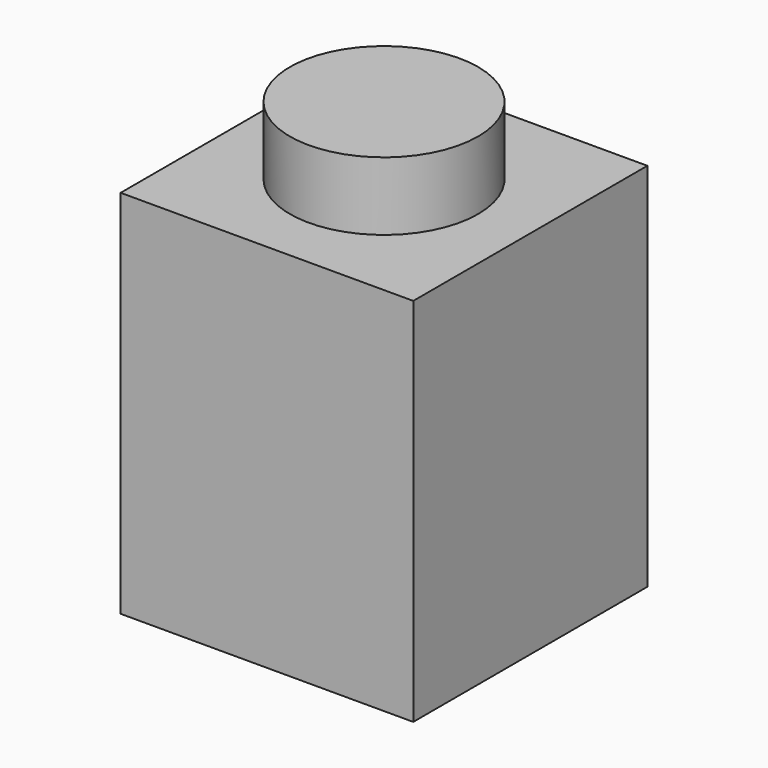
from build123d import *

# Parameters (mm, degrees)
F0_W     = 7.62
F0_H     = 7.62
F1_DEPTH = 9.652
F2_R     = 2.4511
F3_DEPTH = 1.778
F4_W     = 5.08
F4_H     = 5.08
F5_DEPTH = 8.382


with BuildPart() as f1:
    # F0 (on Top) → F1 (new body)
    with BuildSketch(Plane.XY):
        Rectangle(F0_W, F0_H)
    extrude(amount=F1_DEPTH)

    # F2 (on face) → F3 (join)
    with BuildSketch(Plane.XY.offset(9.652)):
        Circle(F2_R)
    extrude(amount=F3_DEPTH)

    # F4 (on face) → F5 (cut)
    with BuildSketch(Plane(origin=(0, 0, 0), x_dir=(1, 0, 0), z_dir=(0, 0, -1))):
        Rectangle(F4_W, F4_H)
    extrude(amount=-F5_DEPTH, mode=Mode.SUBTRACT)


solid = f1.part
